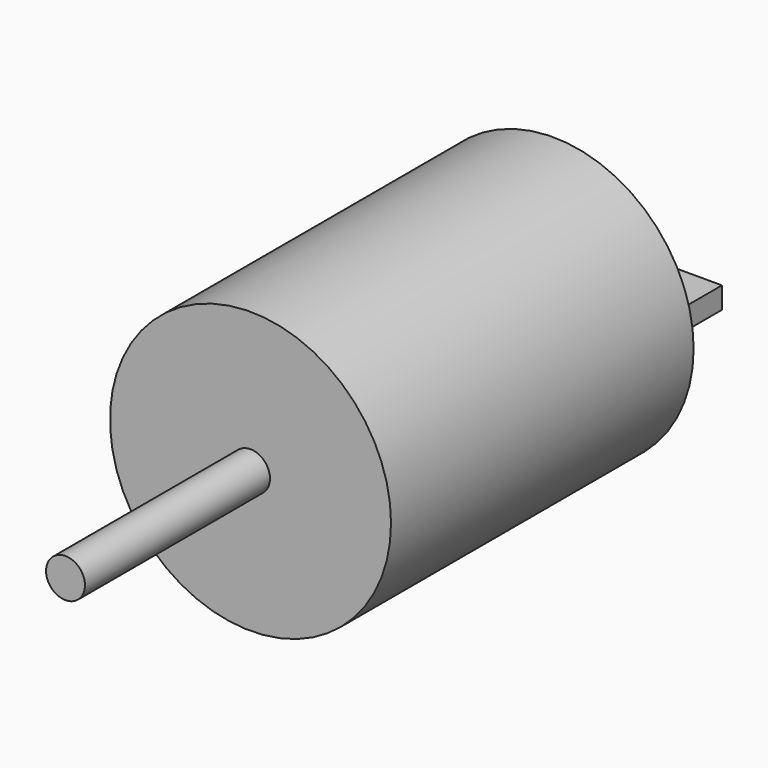
from build123d import *

# Parameters (mm, degrees)
F0_R     = 16.51
F1_DEPTH = 44.45
F2_R     = 2.286
F3_DEPTH = 27.178
F4_W     = 10.16
F4_H     = 2.54
F5_DEPTH = 7.62


with BuildPart() as f1:
    # F0 (on Front) → F1 (new body)
    with BuildSketch(Plane.XZ):
        Circle(F0_R)
    extrude(amount=F1_DEPTH)

    # F2 (on face) → F3 (join)
    with BuildSketch(Plane.XZ.offset(44.45)):
        Circle(F2_R)
    extrude(amount=F3_DEPTH)

    # F4 (on face) → F5 (join)
    with BuildSketch(Plane(origin=(0, 0, 0), x_dir=(-1, 0, 0), z_dir=(0, 1, 0))):
        with Locations((-8.658255, 1.27)):
            Rectangle(F4_W, F4_H)
        with Locations((7.64519, 1.27)):
            Rectangle(F4_W, F4_H)
    extrude(amount=F5_DEPTH)


solid = f1.part
